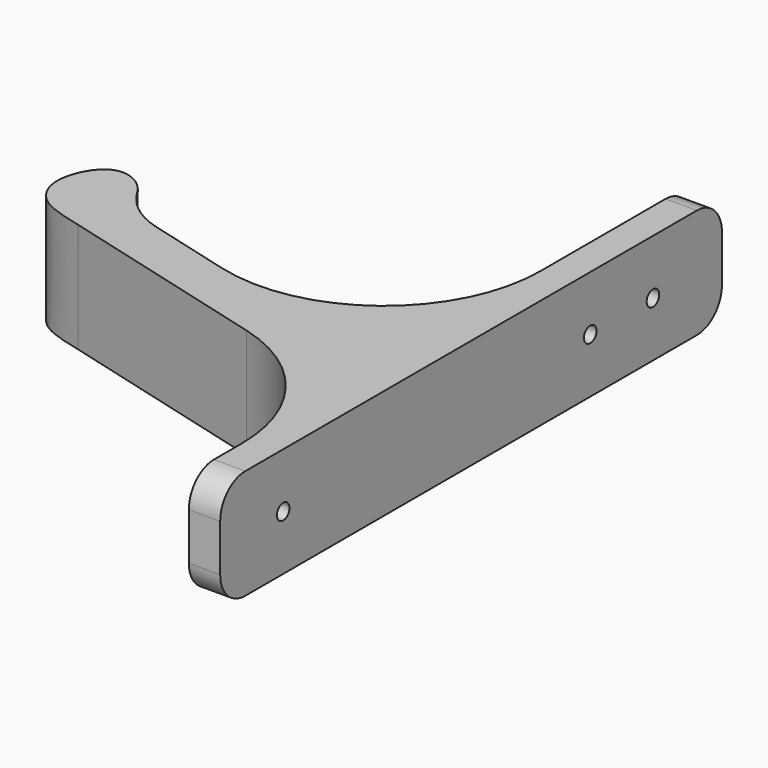
from build123d import *

# Parameters (mm, degrees)
F1_DEPTH      = 7
F2_R          = 2
F3_R          = 0.5
F4_DEPTH      = 2.0010001
F4_DEPTH_BACK = 24.8789222903


with BuildPart() as f1:
    # F0 (on Top) → F1 (new body)
    with BuildSketch(Plane.XY):
        with BuildLine():
            Line((2, 25), (0, 25))
            Line((0, 25), (0, 13.0322537284))
            ThreePointArc((0, 13.0322537284), (-3.9123857099, 5.0987203255), (-12.588190451, 3.3729954655))
            Line((-12.588190451, 3.3729954655), (-17.9665717036, 4.8141283787))
            ThreePointArc((-17.9665717036, 4.8141283787), (-19.7086801846, 5.6711680458), (-20.9929948561, 7.1271882293))
            add(Edge.make_bspline(
                [(-20.9929948561, 7.1271882293), (-21.4872059239, 7.9756639765), (-23.6615903783, 9.114022363), (-25.2928151043, 5.8433290431), (-24.2888337192, 3.5518281333), (-22.9499167285, 2.9919819486), (-21.1171958686, 2.5525070382)],
                knots=[0.095408387, 0.095408387, 0.095408387, 0.095408387, 0.2784045725, 0.5273569121, 0.7343943929, 1, 1, 1, 1], degree=3))
            Line((-21.1171958686, 2.5525070382), (-7.411809549, -1.1198401581))
            ThreePointArc((-7.411809549, -1.1198401581), (-2.0664665971, -4.6914841309), (0, -10.779098421))
            Line((0, -10.779098421), (0, -15))
            Line((0, -15), (2, -15))
            Line((2, -15), (2, 25))
        make_face()
    extrude(amount=F1_DEPTH)

    # F2
    f2_edges = [f1.edges().sort_by_distance(p)[0] for p in [
        (1, 25, 0),
        (1, 25, 7),
        (1, -15, 0),
        (1, -15, 7),
    ]]
    fillet(f2_edges, radius=F2_R)

    # F3 (on face) → F4 (cut, two sides)
    with BuildSketch(Plane(origin=(0, 0, 0), x_dir=(0, -1, 0), z_dir=(-1, 0, 0))) as f4_sk:
        with Locations((-19.5, 3.5)):
            Circle(F3_R)
        with Locations((-14.5, 3.5)):
            Circle(F3_R)
        with Locations((9.9783017114, 3.5)):
            Circle(F3_R)
    extrude(amount=-F4_DEPTH, mode=Mode.SUBTRACT)
    extrude(f4_sk.sketch, amount=F4_DEPTH_BACK, mode=Mode.SUBTRACT)


solid = f1.part
